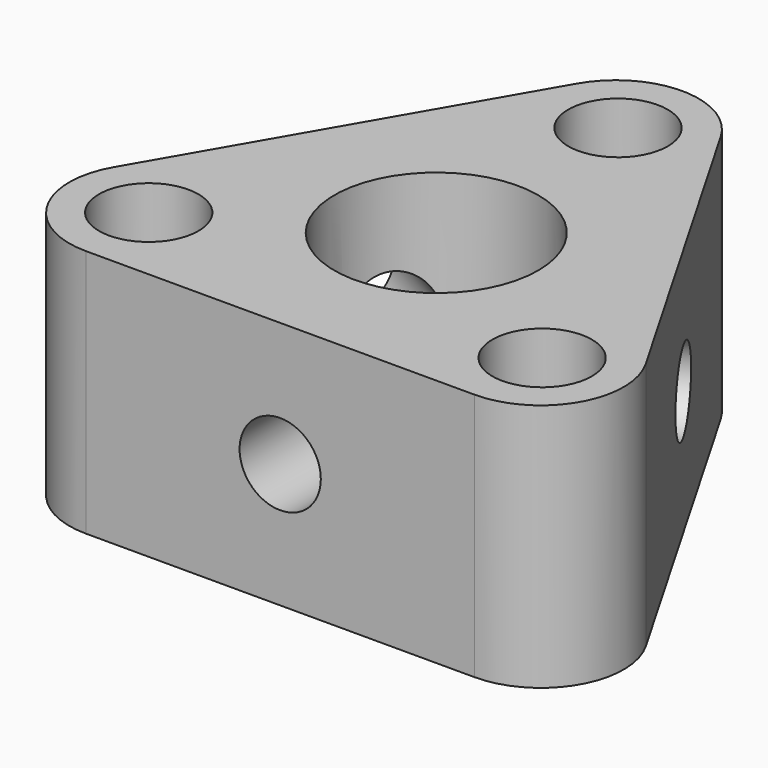
from build123d import *

# Parameters (mm, degrees)
SKETCH_R           = 3
SKETCH_R_2         = 6.15
PAD_DEPTH          = 15
FILLET_R           = 5
SKETCH001_R        = 2.45
POCKET_DEPTH       = 11
POLARPATTERN_COUNT = 3


with BuildPart() as part:
    # Sketch → Pad (new body)
    with BuildSketch(Plane.XY):
        Polygon((0, 23.5333333333), (-20.3804645024, -11.7666666667), (20.3804645024, -11.7666666667), align=None)
        with Locations((0, 13.7)):
            Circle(SKETCH_R, mode=Mode.SUBTRACT)
        with Locations((11.8645480319, -6.85)):
            Circle(SKETCH_R, mode=Mode.SUBTRACT)
        with Locations((-11.8645480318, -6.85)):
            Circle(SKETCH_R, mode=Mode.SUBTRACT)
        Circle(SKETCH_R_2, mode=Mode.SUBTRACT)
    extrude(amount=PAD_DEPTH)

    # Fillet
    fillet_edges = [part.edges().sort_by_distance(p)[0] for p in [
        (-20.380465, -11.766667, 7.5),
        (0, 23.533333, 7.5),
        (20.380465, -11.766667, 7.5),
    ]]
    fillet(fillet_edges, radius=FILLET_R)

    # Sketch001 (on DatumPlane) → Pocket (cut)
    with BuildSketch(Plane(origin=(-10.1902322512, 5.8833333333, 0), x_dir=(-0.5, -0.8660254038, 0), z_dir=(-0.8660254038, 0.5, 0))):
        with Locations((0, 7.5)):
            Circle(SKETCH001_R)
    pocket = extrude(amount=-POCKET_DEPTH, mode=Mode.SUBTRACT)

    # PolarPattern: Pocket ×3 about axis
    polarpattern_axis = Axis((0, 0, 0), (0, 0, 1))
    for i in range(1, POLARPATTERN_COUNT):
        add(pocket.rotate(polarpattern_axis, i * 360 / POLARPATTERN_COUNT), mode=Mode.SUBTRACT)


solid = part.part
